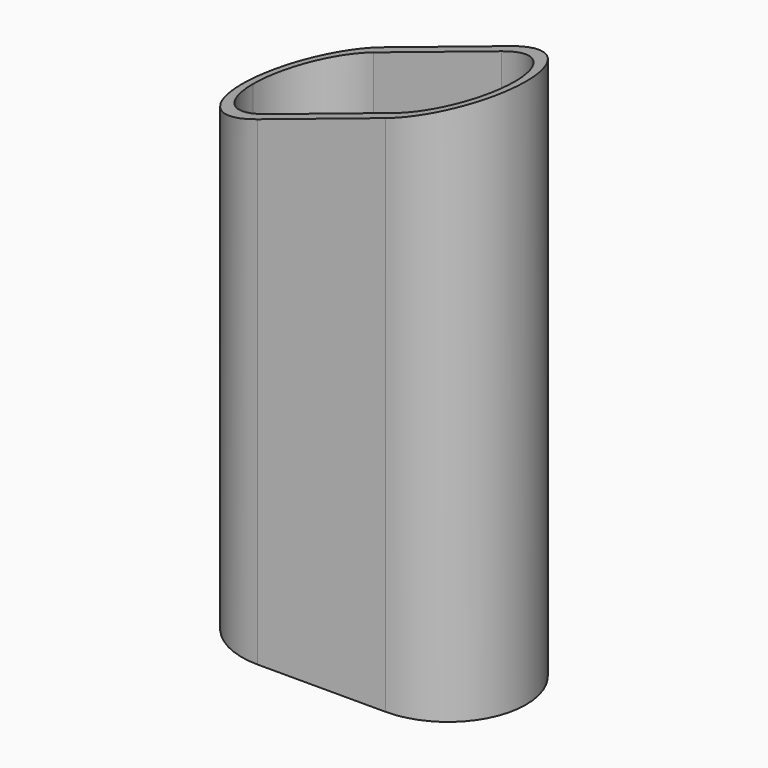
from build123d import *

# Parameters (mm, degrees)
F1_DEPTH = 2
F2_DEPTH = 100
F4_DEPTH = 28.001


with BuildPart() as f1:
    # F0 (on Top) → F1 (new body)
    with BuildSketch(Plane.XY):
        with BuildLine():
            ThreePointArc((23.5, 0), (19.9852813742, 8.4852813742), (11.5, 12))
            Line((11.5, 12), (-4.2888974491, 12))
            ThreePointArc((-4.2888974491, 12), (0.6851433252, 6.8936407031), (2.5, 0))
            ThreePointArc((2.5, 0), (0.6851433252, -6.8936407031), (-4.2888974491, -12))
            Line((-4.2888974491, -12), (11.5, -12))
            ThreePointArc((11.5, -12), (19.9852813742, -8.4852813742), (23.5, 0))
        make_face()
        with BuildLine():
            ThreePointArc((2.5, 0), (0.6851433252, 6.8936407031), (-4.2888974491, 12))
            Line((-4.2888974491, 12), (-11.5, 12))
            ThreePointArc((-11.5, 12), (-19.9852813742, 8.4852813742), (-23.5, 0))
            ThreePointArc((-23.5, 0), (-19.9852813742, -8.4852813742), (-11.5, -12))
            Line((-11.5, -12), (-4.2888974491, -12))
            ThreePointArc((-4.2888974491, -12), (0.6851433252, -6.8936407031), (2.5, 0))
        make_face()
        with BuildLine():
            Line((-4.2888974491, 12), (11.5, 12))
            ThreePointArc((11.5, 12), (19.9852813742, 8.4852813742), (23.5, 0))
            ThreePointArc((23.5, 0), (19.9852813742, -8.4852813742), (11.5, -12))
            Line((11.5, -12), (-4.2888974491, -12))
            ThreePointArc((-4.2888974491, -12), (-7.7583426132, -13.4907375632), (-11.5, -14))
            Line((-11.5, -14), (11.5, -14))
            ThreePointArc((11.5, -14), (21.3994949366, -9.8994949366), (25.5, 0))
            ThreePointArc((25.5, 0), (21.3994949366, 9.8994949366), (11.5, 14))
            Line((11.5, 14), (-11.5, 14))
            ThreePointArc((-11.5, 14), (-7.7583426132, 13.4907375632), (-4.2888974491, 12))
        make_face()
        with BuildLine():
            Line((-11.5, 12), (-4.2888974491, 12))
            ThreePointArc((-4.2888974491, 12), (-7.7583426132, 13.4907375632), (-11.5, 14))
            ThreePointArc((-11.5, 14), (-25.5, 0), (-11.5, -14))
            ThreePointArc((-11.5, -14), (-7.7583426132, -13.4907375632), (-4.2888974491, -12))
            Line((-4.2888974491, -12), (-11.5, -12))
            ThreePointArc((-11.5, -12), (-19.9852813742, -8.4852813742), (-23.5, 0))
            ThreePointArc((-23.5, 0), (-19.9852813742, 8.4852813742), (-11.5, 12))
        make_face()
        with BuildLine():
            Line((-11.5, 12), (-4.2888974491, 12))
            ThreePointArc((-4.2888974491, 12), (-7.7583426132, 13.4907375632), (-11.5, 14))
            ThreePointArc((-11.5, 14), (-25.5, 0), (-11.5, -14))
            ThreePointArc((-11.5, -14), (-7.7583426132, -13.4907375632), (-4.2888974491, -12))
            Line((-4.2888974491, -12), (-11.5, -12))
            ThreePointArc((-11.5, -12), (-19.9852813742, -8.4852813742), (-23.5, 0))
            ThreePointArc((-23.5, 0), (-19.9852813742, 8.4852813742), (-11.5, 12))
        make_face()
    extrude(amount=F1_DEPTH)

    # F0 (on Top) → F2 (join)
    with BuildSketch(Plane.XY):
        with BuildLine():
            Line((-4.2888974491, 12), (11.5, 12))
            ThreePointArc((11.5, 12), (19.9852813742, 8.4852813742), (23.5, 0))
            ThreePointArc((23.5, 0), (19.9852813742, -8.4852813742), (11.5, -12))
            Line((11.5, -12), (-4.2888974491, -12))
            ThreePointArc((-4.2888974491, -12), (-7.7583426132, -13.4907375632), (-11.5, -14))
            Line((-11.5, -14), (11.5, -14))
            ThreePointArc((11.5, -14), (21.3994949366, -9.8994949366), (25.5, 0))
            ThreePointArc((25.5, 0), (21.3994949366, 9.8994949366), (11.5, 14))
            Line((11.5, 14), (-11.5, 14))
            ThreePointArc((-11.5, 14), (-7.7583426132, 13.4907375632), (-4.2888974491, 12))
        make_face()
        with BuildLine():
            Line((-11.5, 12), (-4.2888974491, 12))
            ThreePointArc((-4.2888974491, 12), (-7.7583426132, 13.4907375632), (-11.5, 14))
            ThreePointArc((-11.5, 14), (-25.5, 0), (-11.5, -14))
            ThreePointArc((-11.5, -14), (-7.7583426132, -13.4907375632), (-4.2888974491, -12))
            Line((-4.2888974491, -12), (-11.5, -12))
            ThreePointArc((-11.5, -12), (-19.9852813742, -8.4852813742), (-23.5, 0))
            ThreePointArc((-23.5, 0), (-19.9852813742, 8.4852813742), (-11.5, 12))
        make_face()
    extrude(amount=F2_DEPTH)

    # F3 (on face) → F4 (cut, through all)
    with BuildSketch(Plane(origin=(0, 14, 0), x_dir=(-1, 0, 0), z_dir=(0, 1, 0))):
        Polygon((-30, 127.5684932653), (-30, 100), (30, 80), (30, 127.5684932653), align=None)
    extrude(amount=-F4_DEPTH, mode=Mode.SUBTRACT)


solid = f1.part
